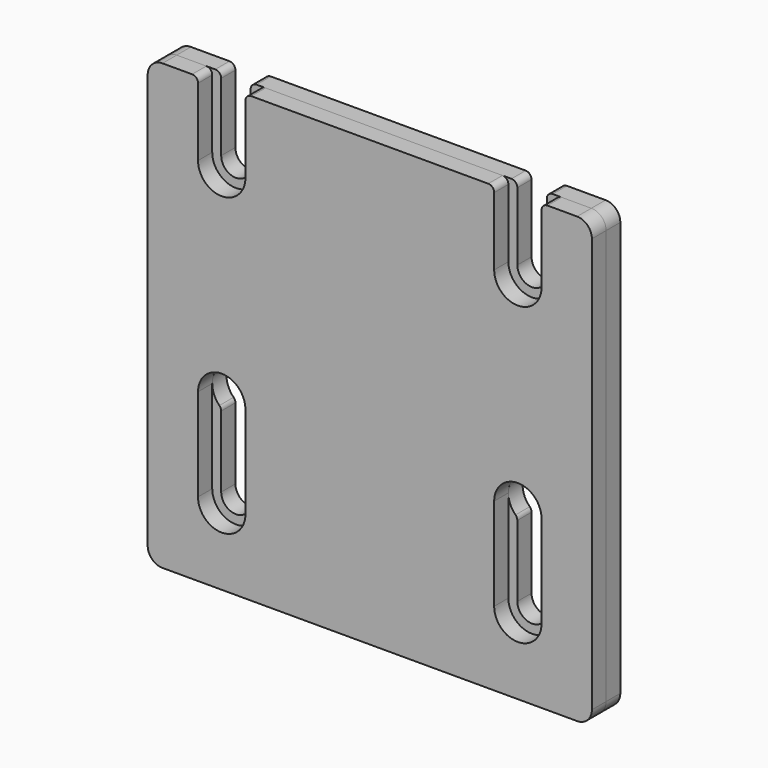
from build123d import *

# Parameters (mm, degrees)
F0_R     = 2.5
F1_DEPTH = 6
F3_DEPTH = 6


with BuildPart() as f1:
    # F0 (on Front) → F1 (new body)
    with BuildSketch(Plane.XZ):
        with BuildLine():
            Line((-70, -75), (70, -75))
            ThreePointArc((70, -75), (73.535534, -73.535534), (75, -70))
            Line((75, -70), (75, 70))
            ThreePointArc((75, 70), (73.535534, 73.535534), (70, 75))
            Line((70, 75), (56.975, 75))
            ThreePointArc((56.975, 75), (55.560786, 74.414214), (54.975, 73))
            Line((54.975, 73), (54.975, 50))
            ThreePointArc((54.975, 50), (50, 45.025), (45.025, 50))
            Line((45.025, 50), (45.025, 73))
            ThreePointArc((45.025, 73), (44.439214, 74.414214), (43.025, 75))
            Line((43.025, 75), (-43.025, 75))
            ThreePointArc((-43.025, 75), (-44.439214, 74.414214), (-45.025, 73))
            Line((-45.025, 73), (-45.025, 50))
            ThreePointArc((-45.025, 50), (-50, 45.025), (-54.975, 50))
            Line((-54.975, 50), (-54.975, 73))
            ThreePointArc((-54.975, 73), (-55.560786, 74.414214), (-56.975, 75))
            Line((-56.975, 75), (-70, 75))
            ThreePointArc((-70, 75), (-73.535534, 73.535534), (-75, 70))
            Line((-75, 70), (-75, -70))
            ThreePointArc((-75, -70), (-73.535534, -73.535534), (-70, -75))
        make_face()
        with BuildLine():
            Line((-45.025, -25.900916), (-45.025, -50))
            ThreePointArc((-45.025, -50), (-50, -54.975), (-54.975, -50))
            Line((-54.975, -50), (-54.975, -25.900916))
            ThreePointArc((-54.975, -25.900916), (-55.132447, -25.123098), (-55.58, -24.467746))
            ThreePointArc((-55.58, -24.467746), (-50, -10.735068), (-44.42, -24.467746))
            ThreePointArc((-44.42, -24.467746), (-44.867553, -25.123098), (-45.025, -25.900916))
        make_face(mode=Mode.SUBTRACT)
        with Locations((0, -62.063791)):
            Circle(F0_R, mode=Mode.SUBTRACT)
        with BuildLine():
            ThreePointArc((54.975, -50), (50, -54.975), (45.025, -50))
            Line((45.025, -50), (45.025, -25.900916))
            ThreePointArc((45.025, -25.900916), (44.867553, -25.123098), (44.42, -24.467746))
            ThreePointArc((44.42, -24.467746), (50, -10.735068), (55.58, -24.467746))
            ThreePointArc((55.58, -24.467746), (55.132447, -25.123098), (54.975, -25.900916))
            Line((54.975, -25.900916), (54.975, -50))
        make_face(mode=Mode.SUBTRACT)
        with Locations((0, 62.063791)):
            Circle(F0_R, mode=Mode.SUBTRACT)
    extrude(amount=F1_DEPTH)


with BuildPart() as f3:
    # F2 (on face) → F3 (new body)
    with BuildSketch(Plane.XZ.offset(6)):
        with BuildLine():
            ThreePointArc((-42, 50), (-50, 42), (-58, 50))
            Line((-58, 50), (-58, 73))
            ThreePointArc((-58, 73), (-58.585786, 74.414214), (-60, 75))
            Line((-60, 75), (-70, 75))
            ThreePointArc((-70, 75), (-73.535534, 73.535534), (-75, 70))
            Line((-75, 70), (-75, -70))
            ThreePointArc((-75, -70), (-73.535534, -73.535534), (-70, -75))
            Line((-70, -75), (70, -75))
            ThreePointArc((70, -75), (73.535534, -73.535534), (75, -70))
            Line((75, -70), (75, 70))
            ThreePointArc((75, 70), (73.535534, 73.535534), (70, 75))
            Line((70, 75), (60, 75))
            ThreePointArc((60, 75), (58.585786, 74.414214), (58, 73))
            Line((58, 73), (58, 50))
            ThreePointArc((58, 50), (50, 42), (42, 50))
            Line((42, 50), (42, 73))
            ThreePointArc((42, 73), (41.414214, 74.414214), (40, 75))
            Line((40, 75), (-40, 75))
            ThreePointArc((-40, 75), (-41.414214, 74.414214), (-42, 73))
            Line((-42, 73), (-42, 50))
        make_face()
        with BuildLine():
            ThreePointArc((-58, -18.735068), (-50, -10.735068), (-42, -18.735068))
            Line((-42, -18.735068), (-42, -50))
            ThreePointArc((-42, -50), (-50, -58), (-58, -50))
            Line((-58, -50), (-58, -18.735068))
        make_face(mode=Mode.SUBTRACT)
        with BuildLine():
            Line((42, -50), (42, -18.735068))
            ThreePointArc((42, -18.735068), (50, -10.735068), (58, -18.735068))
            Line((58, -18.735068), (58, -50))
            ThreePointArc((58, -50), (50, -58), (42, -50))
        make_face(mode=Mode.SUBTRACT)
    extrude(amount=F3_DEPTH)


solid = Compound([f1.part, f3.part])
